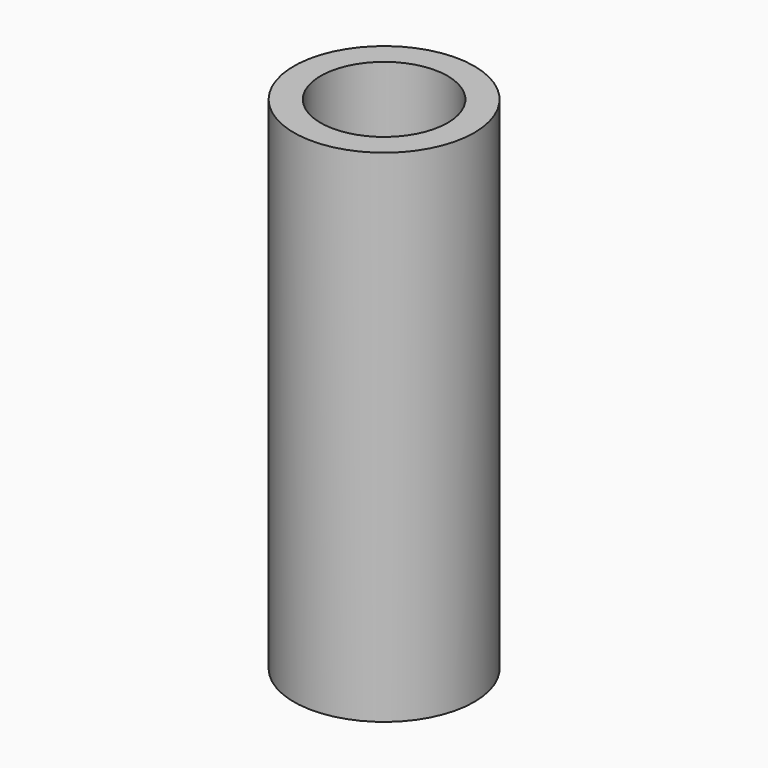
from build123d import *

# Parameters (mm, degrees)
F0_R      = 12.446
F1_DEPTH  = 69.1388
F3_R      = 8.763
F4_DEPTH  = 69.1398
F5_R      = 8.736653
F6_DEPTH  = 1.4224
F7_R      = 5.413871
F8_DEPTH  = 25.4
F8_FACE_R = 5.413871
F9_DEPTH  = 94.5398


with BuildPart() as f1:
    # F0 (on Top) → F1 (new body)
    with BuildSketch(Plane.XY):
        Circle(F0_R)
    extrude(amount=F1_DEPTH)

    # F3 (on face) → F4 (cut, through all)
    with BuildSketch(Plane.XY.offset(69.1388)):
        Circle(F3_R)
    extrude(amount=-F4_DEPTH, mode=Mode.SUBTRACT)


with BuildPart() as f6:
    # F5 (on face) → F6 (new body)
    with BuildSketch(Plane(origin=(0, 0, 0), x_dir=(1, 0, 0), z_dir=(0, 0, -1))):
        Circle(F5_R)
    extrude(amount=-F6_DEPTH)

    # F7 (on face) → F8 (join)
    with BuildSketch(Plane(origin=(0, 0, 0), x_dir=(1, 0, 0), z_dir=(0, 0, -1))):
        Circle(F7_R)
    extrude(amount=F8_DEPTH)

    # F8_face (on face) → F9 (cut, through all)
    with BuildSketch(Plane(origin=(0, 0, -25.4), x_dir=(1, 0, 0), z_dir=(0, 0, -1))):
        Circle(F8_FACE_R)
    extrude(amount=-F9_DEPTH, mode=Mode.SUBTRACT)


solid = Compound([f1.part, f6.part])
